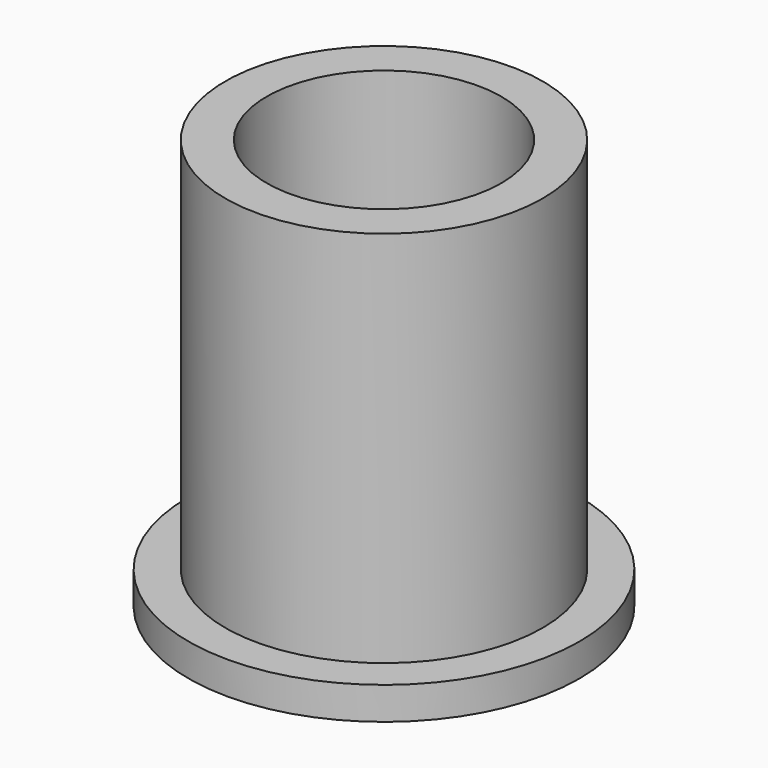
from build123d import *

# Parameters (mm, degrees)
SKETCH_R     = 3
PAD_DEPTH    = 0.5
SKETCH001_R  = 2.435
PAD001_DEPTH = 5.8
SKETCH002_R  = 1.8
POCKET_DEPTH = 5.8


with BuildPart() as part:
    # Sketch (on Face1 of CopyBox) → Pad (new body)
    with BuildSketch(Plane.XY.offset(8)):
        Circle(SKETCH_R)
    extrude(amount=PAD_DEPTH)

    # Sketch001 (on Face3 of Pad) → Pad001 (join)
    with BuildSketch(Plane.XY.offset(8.5)):
        Circle(SKETCH001_R)
    extrude(amount=PAD001_DEPTH)

    # Sketch002 (on Face5 of Pad001) → Pocket (cut)
    with BuildSketch(Plane.XY.offset(14.3)):
        Circle(SKETCH002_R)
    extrude(amount=-POCKET_DEPTH, mode=Mode.SUBTRACT)


solid = part.part
